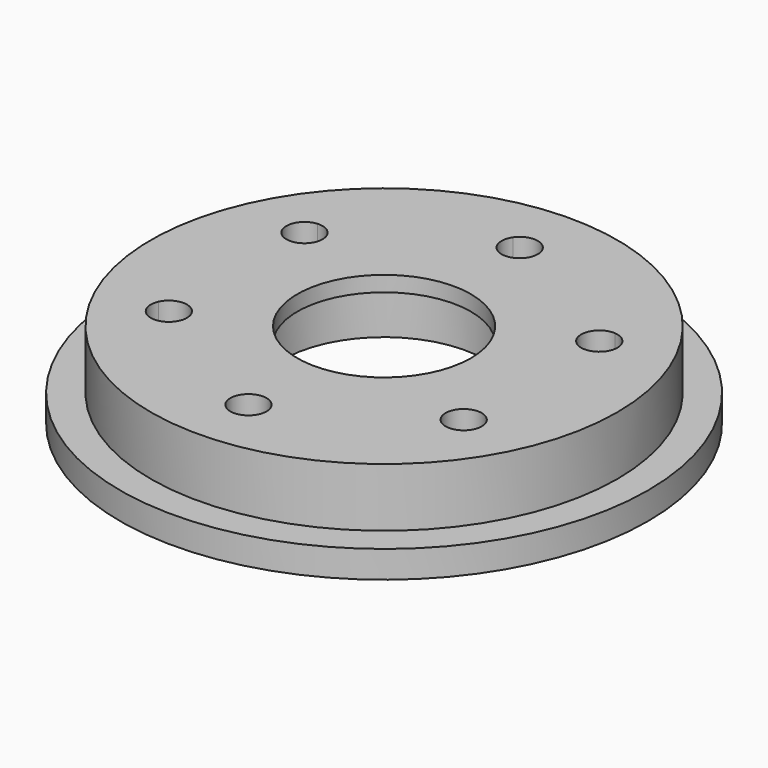
from build123d import *

# Parameters (mm, degrees)
F0_R      = 37.084
F1_DEPTH  = 3.81
F2_R      = 32.766
F3_DEPTH  = 8.255
F4_R      = 12.192
F5_DEPTH  = 12.065
F6_R      = 25.4
F6_R_2    = 12.192
F7_DEPTH  = 3.302
F8_R      = 14.224
F8_R_2    = 12.192
F9_DEPTH  = 6.604
F11_DEPTH = 12.192
F10_R     = 5.334
F10_R_2   = 2.54
F12_DEPTH = 3.302


with BuildPart() as f1:
    # F0 (on Top) → F1 (new body)
    with BuildSketch(Plane.XY):
        with Locations((44.6336865425, -8.3147734404)):
            Circle(F0_R)
    extrude(amount=F1_DEPTH)

    # F2 (on face) → F3 (join)
    with BuildSketch(Plane.XY.offset(3.81)):
        with Locations((44.6336865425, -8.3147734404)):
            Circle(F2_R)
    extrude(amount=F3_DEPTH)

    # F4 (on face) → F5 (cut)
    with BuildSketch(Plane.XY.offset(12.065)):
        with Locations((44.6336865425, -8.3147734404)):
            Circle(F4_R)
    extrude(amount=-F5_DEPTH, mode=Mode.SUBTRACT)

    # F6 (on face) → F7 (cut)
    with BuildSketch(Plane(origin=(0, 0, 0), x_dir=(1, 0, 0), z_dir=(0, 0, -1))):
        with Locations((44.6336865425, 8.3147734404)):
            Circle(F6_R)
        with Locations((44.6336865425, 8.3147734404)):
            Circle(F6_R_2, mode=Mode.SUBTRACT)
    extrude(amount=-F7_DEPTH, mode=Mode.SUBTRACT)

    # F8 (on face) → F9 (cut)
    with BuildSketch(Plane(origin=(0, 0, 3.302), x_dir=(1, 0, 0), z_dir=(0, 0, -1))):
        with Locations((44.6336865425, 8.3147734404)):
            Circle(F8_R)
        with Locations((44.6336865425, 8.3147734404)):
            Circle(F8_R_2, mode=Mode.SUBTRACT)
    extrude(amount=-F9_DEPTH, mode=Mode.SUBTRACT)

    # F10 (on face) → F11 (cut)
    with BuildSketch(Plane(origin=(0, 0, 0), x_dir=(1, 0, 0), z_dir=(0, 0, -1))):
        with BuildLine():
            ThreePointArc((26.4725169512, -3.5816526428), (24.4962514712, -1.1050009937), (21.6427505016, -2.4823030141))
            ThreePointArc((21.6427505016, -2.4823030141), (22.6111657007, -4.3409989885), (23.7295214672, -6.1135280018))
            ThreePointArc((23.7295214672, -6.1135280018), (25.6553041509, -5.4480942478), (26.4725169512, -3.5816526428))
        make_face()
        with BuildLine():
            ThreePointArc((23.7295214672, -6.1135280018), (22.6111657007, -4.3409989885), (21.6427505016, -2.4823030141))
            ThreePointArc((21.6427505016, -2.4823030141), (21.730264867, -4.8472298857), (23.7295214672, -6.1135280018))
        make_face()
        with BuildLine():
            ThreePointArc((26.5204945446, 20.2942991529), (25.7070287844, 22.1572751374), (23.7876760259, 22.8269698814))
            ThreePointArc((23.7876760259, 22.8269698814), (22.6622056937, 21.0589497303), (21.6863284225, 19.2041607194))
            ThreePointArc((21.6863284225, 19.2041607194), (24.5392512224, 17.8165197085), (26.5204945446, 20.2942991529))
        make_face()
        with BuildLine():
            ThreePointArc((21.6863284225, 19.2041607194), (22.6622056937, 21.0589497303), (23.7876760259, 22.8269698814))
            ThreePointArc((23.7876760259, 22.8269698814), (21.7833464597, 21.5687167819), (21.6863284225, 19.2041607194))
        make_face()
        with BuildLine():
            ThreePointArc((47.2216641359, 32.1907252361), (47.1083746403, 32.9408426453), (46.7786120668, 33.6240463358))
            ThreePointArc((46.7786120668, 33.6240463358), (44.6847265355, 33.7147221592), (42.5904934978, 33.6324621615))
            ThreePointArc((42.5904934978, 33.6324621615), (43.9266718912, 29.7655269534), (47.2216641359, 32.1907252361))
        make_face()
        with BuildLine():
            ThreePointArc((42.5904934978, 33.6324621615), (44.6847265355, 33.7147221592), (46.7786120668, 33.6240463358))
            ThreePointArc((46.7786120668, 33.6240463358), (44.6867681352, 34.7307201079), (42.5904934978, 33.6324621615))
        make_face()
        with BuildLine():
            ThreePointArc((67.6246225834, 19.1118498948), (66.6562073843, 20.9705458693), (65.5378516178, 22.7430748825))
            ThreePointArc((65.5378516178, 22.7430748825), (63.1326040496, 18.9456222806), (67.6246225834, 19.1118498948))
        make_face()
        with BuildLine():
            ThreePointArc((67.6246225834, 19.1118498948), (67.8115077829, 19.6474650036), (67.8748561338, 20.2111995235))
            ThreePointArc((67.8748561338, 20.2111995235), (67.2012977387, 21.9339867232), (65.5378516178, 22.7430748825))
            ThreePointArc((65.5378516178, 22.7430748825), (66.6562073843, 20.9705458693), (67.6246225834, 19.1118498948))
        make_face()
        with BuildLine():
            ThreePointArc((67.8268785404, -3.6647522722), (67.7646579848, -3.1059955944), (67.5810446625, -2.5746138386))
            ThreePointArc((67.5810446625, -2.5746138386), (66.6051673914, -4.4294028496), (65.4796970591, -6.1974230006))
            ThreePointArc((65.4796970591, -6.1974230006), (67.1498545249, -5.391286512), (67.8268785404, -3.6647522722))
        make_face()
        with BuildLine():
            ThreePointArc((65.4796970591, -6.1974230006), (66.6051673914, -4.4294028496), (67.5810446625, -2.5746138386))
            ThreePointArc((67.5810446625, -2.5746138386), (63.0897304555, -2.3903346432), (65.4796970591, -6.1974230006))
        make_face()
        with BuildLine():
            ThreePointArc((42.4887610182, -16.9944994551), (44.5806049498, -18.1011732272), (46.6768795873, -17.0029152808))
            ThreePointArc((46.6768795873, -17.0029152808), (44.5826465496, -17.0851752785), (42.4887610182, -16.9944994551))
        make_face()
        with BuildLine():
            ThreePointArc((42.4887610182, -16.9944994551), (44.5826465496, -17.0851752785), (46.6768795873, -17.0029152808))
            ThreePointArc((46.6768795873, -17.0029152808), (47.0109072318, -16.3161706001), (47.1257089491, -15.5611783553))
            ThreePointArc((47.1257089491, -15.5611783553), (43.8355915399, -13.1344678509), (42.4887610182, -16.9944994551))
        make_face()
    extrude(amount=-F11_DEPTH, mode=Mode.SUBTRACT)

    # F10 (on face) → F12 (cut)
    with BuildSketch(Plane(origin=(0, 0, 0), x_dir=(1, 0, 0), z_dir=(0, 0, -1))):
        with Locations((44.6816641359, 32.1907252361)):
            Circle(F10_R)
        with Locations((44.6816641359, 32.1907252361)):
            Circle(F10_R_2, mode=Mode.SUBTRACT)
        with Locations((65.3348561338, 20.2111995235)):
            Circle(F10_R)
        with Locations((65.3348561338, 20.2111995235)):
            Circle(F10_R_2, mode=Mode.SUBTRACT)
        with Locations((65.2868785404, -3.6647522722)):
            Circle(F10_R)
        with Locations((65.2868785404, -3.6647522722)):
            Circle(F10_R_2, mode=Mode.SUBTRACT)
        with Locations((44.5857089491, -15.5611783553)):
            Circle(F10_R)
        with Locations((44.5857089491, -15.5611783553)):
            Circle(F10_R_2, mode=Mode.SUBTRACT)
        with Locations((23.9325169512, -3.5816526428)):
            Circle(F10_R)
        with Locations((23.9325169512, -3.5816526428)):
            Circle(F10_R_2, mode=Mode.SUBTRACT)
        with Locations((23.9804945446, 20.2942991529)):
            Circle(F10_R)
        with Locations((23.9804945446, 20.2942991529)):
            Circle(F10_R_2, mode=Mode.SUBTRACT)
    extrude(amount=-F12_DEPTH, mode=Mode.SUBTRACT)


solid = f1.part
